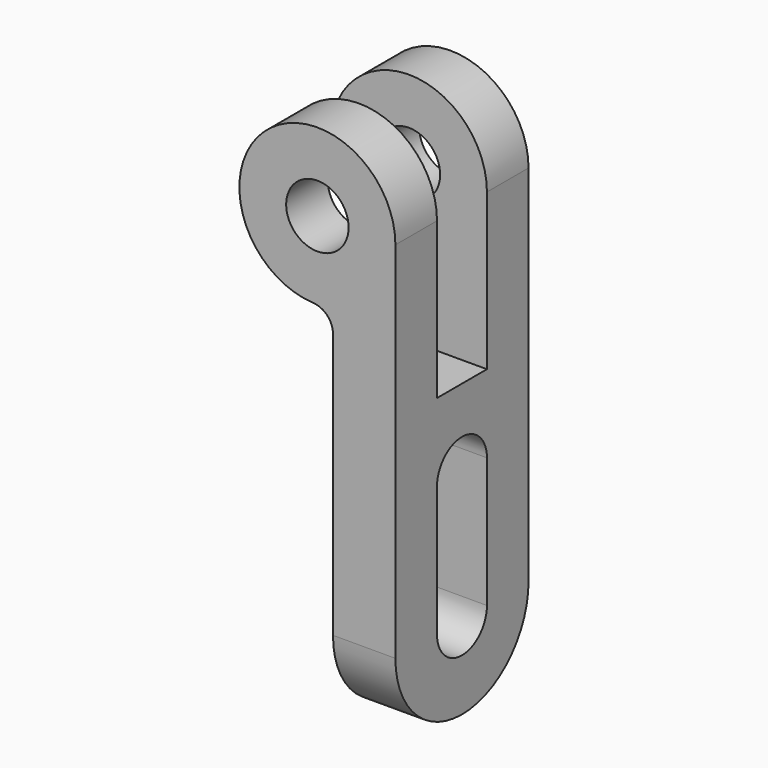
from build123d import *

# Parameters (mm, degrees)
F0_R     = 6
F1_DEPTH = 32
F3_W     = 12
F3_H     = 45
F4_DEPTH = 55.801
F5_R     = 4


with BuildPart() as f1:
    # F0 (on Front) → F1 (new body)
    with BuildSketch(Plane.XZ):
        with BuildLine():
            Line((15, -27.838539), (15, 58.161461))
            ThreePointArc((15, 58.161461), (-11.61895, 67.648294), (3, 43.464522))
            Line((3, 43.464522), (3, -27.838539))
            Line((3, -27.838539), (15, -27.838539))
        make_face()
        with Locations((0, 58.161461)):
            Circle(F0_R, mode=Mode.SUBTRACT)
    extrude(amount=F1_DEPTH)

    # F3 (on offset) → F4 (cut, through all)
    with BuildSketch(Plane.YZ.offset(-40.8)):
        with BuildLine():
            Line((0, -27.838539), (0, -11.838539))
            ThreePointArc((0, -11.838539), (-4.686292, -23.152248), (-16, -27.838539))
            Line((-16, -27.838539), (0, -27.838539))
        make_face()
        with BuildLine():
            Line((-32, -27.838539), (-16, -27.838539))
            ThreePointArc((-16, -27.838539), (-27.313708, -23.152248), (-32, -11.838539))
            Line((-32, -11.838539), (-32, -27.838539))
        make_face()
        with BuildLine():
            Line((-10, -11.838539), (-10, 13.161461))
            ThreePointArc((-10, 13.161461), (-16, 19.161461), (-22, 13.161461))
            Line((-22, 13.161461), (-22, -11.838539))
            ThreePointArc((-22, -11.838539), (-16, -17.838539), (-10, -11.838539))
        make_face()
        with Locations((-16, 50.661461)):
            Rectangle(F3_W, F3_H)
    extrude(amount=F4_DEPTH, mode=Mode.SUBTRACT)

    # F5
    f5_edges = [f1.edges().sort_by_distance(p)[0] for p in [
        (3, -5, 43.464522),
        (3, -27, 43.464522),
    ]]
    fillet(f5_edges, radius=F5_R)


solid = f1.part
